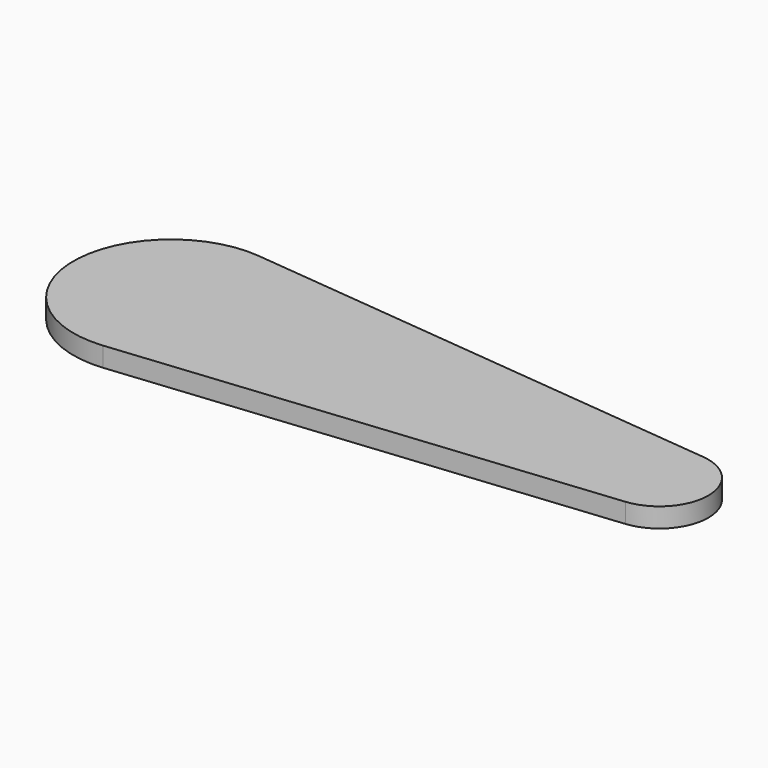
from build123d import *

# Parameters (mm, degrees)
PAD_DEPTH = 2


with BuildPart() as part:
    # Sketch → Pad (new body)
    with BuildSketch(Plane.XY):
        with BuildLine():
            ThreePointArc((1, 9.949874), (-10, 0), (1, -9.949874))
            Line((1, -9.949874), (50.5, -4.974937))
            ThreePointArc((50.5, -4.974937), (55, 0), (50.5, 4.974937))
            Line((1, 9.949874), (50.5, 4.974937))
        make_face()
    extrude(amount=PAD_DEPTH)


solid = part.part
